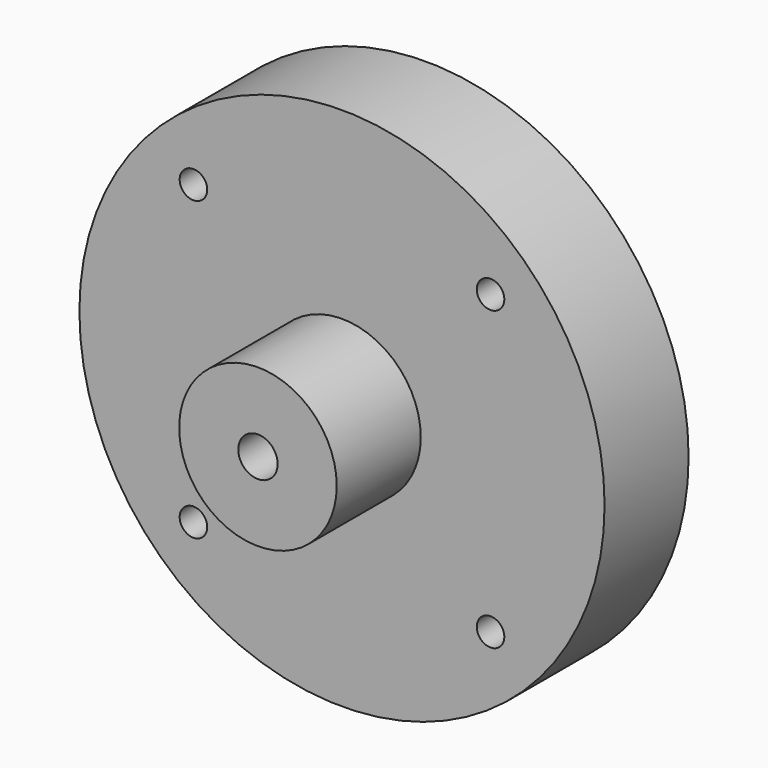
from build123d import *

# Parameters (mm, degrees)
F3_D           = 5.25
F3_CBORE_D     = 9.75
F3_CBORE_DEPTH = 5


with BuildPart() as f1:
    # F0 (on Top) → F1 (revolve)
    with BuildSketch(Plane.XY):
        Polygon((50, 20), (50, 40), (3.75, 40), (3.75, 0), (15, 0), (15, 20), align=None)
    revolve(axis=Axis((0, 20, 0), (0, 1, 0)))

    # F3 (through all)
    with Locations(Plane(origin=(0, 40, 0), x_dir=(-1, 0, 0), z_dir=(0, 1, 0))):
        with Locations((-28.2842712475, 28.2842712475), (28.2842712475, 28.2842712475), (-28.2842712475, -28.2842712475), (28.2842712475, -28.2842712475)):
            CounterBoreHole(F3_D / 2, F3_CBORE_D / 2, F3_CBORE_DEPTH)


solid = f1.part
